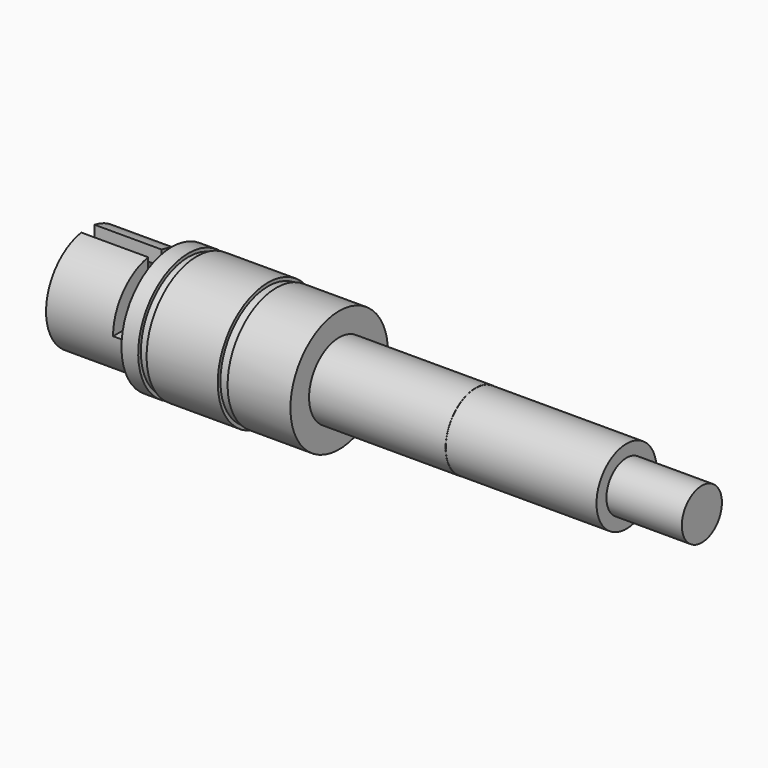
from build123d import *

# Parameters (mm, degrees)
F2_W          = 2
F2_H          = 7.5
F3_DEPTH      = 7.496
F3_DEPTH_BACK = 7.496
F4_W          = 2
F4_H          = 7.495
F5_DEPTH      = 8


with BuildPart() as f1:
    # F0 (on Front) → F1 (revolve)
    with BuildSketch(Plane.XZ):
        Polygon((0, 6.25), (0, 4.5), (21, 4.5), (21, 0), (73.3, 0), (73.3, 2.995), (64.3, 2.995), (64.3, 4.475), (46.3, 4.475), (46.3, 4.495), (30, 4.495), (30, 7.28), (22.5, 7.28), (22.5, 7.1), (21.5, 7.1), (21.5, 7.495), (13, 7.495), (13, 7.1), (12, 7.1), (12, 7.495), (10, 7.495), (10, 6.25), align=None)
    revolve(axis=Axis((62.9070794401, 0, 0), (1, 0, 0)))

    # F2 (on Front) → F3 (cut, two sides)
    with BuildSketch(Plane.XZ) as f3_sk:
        with Locations((9, 3.75)):
            Rectangle(F2_W, F2_H)
    extrude(amount=-F3_DEPTH, mode=Mode.SUBTRACT)
    extrude(f3_sk.sketch, amount=F3_DEPTH_BACK, mode=Mode.SUBTRACT)

    # F4 (on face) → F5 (cut, through all)
    with BuildSketch(Plane(origin=(0, 0, 0), x_dir=(0, -1, 0), z_dir=(-1, 0, 0))):
        with Locations((0, 3.7475)):
            Rectangle(F4_W, F4_H)
    extrude(amount=-F5_DEPTH, mode=Mode.SUBTRACT)


solid = f1.part
